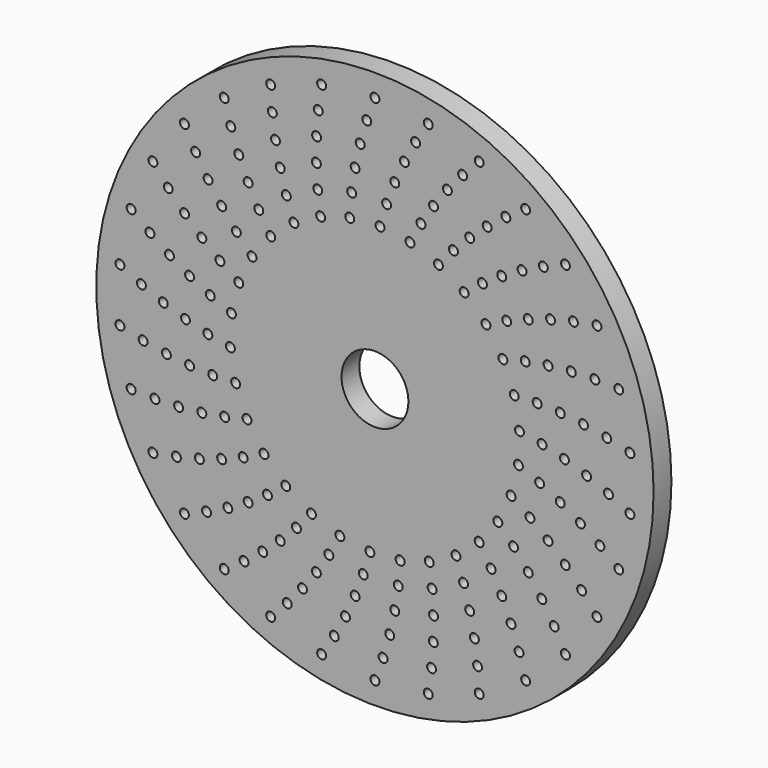
from build123d import *

# Parameters (mm, degrees)
F0_R     = 125
F0_R_2   = 2
F1_DEPTH = 10
F2_R     = 15
F3_DEPTH = 25


with BuildPart() as f1:
    # F0 (on Front) → F1 (new body)
    with BuildSketch(Plane.XZ):
        Circle(F0_R)
        with Locations((-67.595304, -93.036954)):
            Circle(F0_R_2, mode=Mode.SUBTRACT)
        with Locations((-85.461655, -76.95002)):
            Circle(F0_R_2, mode=Mode.SUBTRACT)
        with Locations((-75.530679, -72.939129)):
            Circle(F0_R_2, mode=Mode.SUBTRACT)
        with Locations((-65.992545, -68.337281)):
            Circle(F0_R_2, mode=Mode.SUBTRACT)
        with Locations((-46.774714, -105.057728)):
            Circle(F0_R_2, mode=Mode.SUBTRACT)
        with Locations((-39.333692, -97.354305)):
            Circle(F0_R_2, mode=Mode.SUBTRACT)
        with Locations((-23.909844, -112.486974)):
            Circle(F0_R_2, mode=Mode.SUBTRACT)
        with Locations((-18.233059, -103.404814)):
            Circle(F0_R_2, mode=Mode.SUBTRACT)
        with Locations((-13.221445, -94.075467)):
            Circle(F0_R_2, mode=Mode.SUBTRACT)
        with Locations((-58.715255, -87.048945)):
            Circle(F0_R_2, mode=Mode.SUBTRACT)
        with Locations((-50.34233, -80.564569)):
            Circle(F0_R_2, mode=Mode.SUBTRACT)
        with Locations((-32.491914, -89.270799)):
            Circle(F0_R_2, mode=Mode.SUBTRACT)
        with Locations((-56.876102, -63.16731)):
            Circle(F0_R_2, mode=Mode.SUBTRACT)
        with Locations((-42.5, -73.612159)):
            Circle(F0_R_2, mode=Mode.SUBTRACT)
        with Locations((-35.210367, -66.221069)):
            Circle(F0_R_2, mode=Mode.SUBTRACT)
        with Locations((-26.266445, -80.839804)):
            Circle(F0_R_2, mode=Mode.SUBTRACT)
        with Locations((-8.884919, -84.534361)):
            Circle(F0_R_2, mode=Mode.SUBTRACT)
        with Locations((-20.672802, -72.094627)):
            Circle(F0_R_2, mode=Mode.SUBTRACT)
        with Locations((-15.724923, -63.069222)):
            Circle(F0_R_2, mode=Mode.SUBTRACT)
        with Locations((-5.231736, -74.817304)):
            Circle(F0_R_2, mode=Mode.SUBTRACT)
        with Locations((-2.268467, -64.960404)):
            Circle(F0_R_2, mode=Mode.SUBTRACT)
        with Locations((-99.592921, -57.5)):
            Circle(F0_R_2, mode=Mode.SUBTRACT)
        with Locations((-109.371499, -35.536954)):
            Circle(F0_R_2, mode=Mode.SUBTRACT)
        with Locations((-98.667725, -35.912115)):
            Circle(F0_R_2, mode=Mode.SUBTRACT)
        with Locations((-89.04505, -55.641523)):
            Circle(F0_R_2, mode=Mode.SUBTRACT)
        with Locations((-78.758569, -53.123326)):
            Circle(F0_R_2, mode=Mode.SUBTRACT)
        with Locations((-68.766445, -49.961746)):
            Circle(F0_R_2, mode=Mode.SUBTRACT)
        with Locations((-88.082466, -35.587626)):
            Circle(F0_R_2, mode=Mode.SUBTRACT)
        with Locations((-77.651364, -34.572615)):
            Circle(F0_R_2, mode=Mode.SUBTRACT)
        with Locations((-67.409553, -32.877836)):
            Circle(F0_R_2, mode=Mode.SUBTRACT)
        with Locations((-114.370018, -12.020773)):
            Circle(F0_R_2, mode=Mode.SUBTRACT)
        with Locations((-103.978147, -14.613176)):
            Circle(F0_R_2, mode=Mode.SUBTRACT)
        with Locations((-93.556737, -16.496577)):
            Circle(F0_R_2, mode=Mode.SUBTRACT)
        with Locations((-83.142546, -17.672494)):
            Circle(F0_R_2, mode=Mode.SUBTRACT)
        with Locations((-72.772179, -18.144142)):
            Circle(F0_R_2, mode=Mode.SUBTRACT)
        with Locations((-74.954312, -2.617462)):
            Circle(F0_R_2, mode=Mode.SUBTRACT)
        with Locations((-64.841663, -4.534171)):
            Circle(F0_R_2, mode=Mode.SUBTRACT)
        with Locations((-48.209071, -57.453333)):
            Circle(F0_R_2, mode=Mode.SUBTRACT)
        with Locations((-40.017996, -51.220699)):
            Circle(F0_R_2, mode=Mode.SUBTRACT)
        with Locations((-59.100807, -46.174611)):
            Circle(F0_R_2, mode=Mode.SUBTRACT)
        with Locations((-49.792889, -41.781195)):
            Circle(F0_R_2, mode=Mode.SUBTRACT)
        with Locations((-28.494125, -58.421613)):
            Circle(F0_R_2, mode=Mode.SUBTRACT)
        with Locations((-57.391594, -30.515652)):
            Circle(F0_R_2, mode=Mode.SUBTRACT)
        with Locations((-62.48201, -17.916428)):
            Circle(F0_R_2, mode=Mode.SUBTRACT)
        with Locations((0, -115)):
            Circle(F0_R_2, mode=Mode.SUBTRACT)
        with Locations((23.909844, -112.486974)):
            Circle(F0_R_2, mode=Mode.SUBTRACT)
        with Locations((3.664447, -104.936037)):
            Circle(F0_R_2, mode=Mode.SUBTRACT)
        with Locations((6.626865, -94.768585)):
            Circle(F0_R_2, mode=Mode.SUBTRACT)
        with Locations((25.401799, -101.881051)):
            Circle(F0_R_2, mode=Mode.SUBTRACT)
        with Locations((46.774714, -105.057728)):
            Circle(F0_R_2, mode=Mode.SUBTRACT)
        with Locations((46.02897, -94.373375)):
            Circle(F0_R_2, mode=Mode.SUBTRACT)
        with Locations((8.884919, -84.534361)):
            Circle(F0_R_2, mode=Mode.SUBTRACT)
        with Locations((26.185549, -91.319861)):
            Circle(F0_R_2, mode=Mode.SUBTRACT)
        with Locations((26.266445, -80.839804)):
            Circle(F0_R_2, mode=Mode.SUBTRACT)
        with Locations((10.437983, -74.270105)):
            Circle(F0_R_2, mode=Mode.SUBTRACT)
        with Locations((11.287132, -64.012504)):
            Circle(F0_R_2, mode=Mode.SUBTRACT)
        with Locations((25.651511, -70.476947)):
            Circle(F0_R_2, mode=Mode.SUBTRACT)
        with Locations((44.599798, -83.880021)):
            Circle(F0_R_2, mode=Mode.SUBTRACT)
        with Locations((42.5, -73.612159)):
            Circle(F0_R_2, mode=Mode.SUBTRACT)
        with Locations((39.743945, -63.603607)):
            Circle(F0_R_2, mode=Mode.SUBTRACT)
        with Locations((61.064823, -72.774222)):
            Circle(F0_R_2, mode=Mode.SUBTRACT)
        with Locations((56.876102, -63.16731)):
            Circle(F0_R_2, mode=Mode.SUBTRACT)
        with Locations((67.595304, -93.036954)):
            Circle(F0_R_2, mode=Mode.SUBTRACT)
        with Locations((64.644455, -82.741129)):
            Circle(F0_R_2, mode=Mode.SUBTRACT)
        with Locations((85.461655, -76.95002)):
            Circle(F0_R_2, mode=Mode.SUBTRACT)
        with Locations((80.434667, -67.492699)):
            Circle(F0_R_2, mode=Mode.SUBTRACT)
        with Locations((24.349429, -60.266951)):
            Circle(F0_R_2, mode=Mode.SUBTRACT)
        with Locations((36.347539, -53.887442)):
            Circle(F0_R_2, mode=Mode.SUBTRACT)
        with Locations((52.099378, -53.950485)):
            Circle(F0_R_2, mode=Mode.SUBTRACT)
        with Locations((46.757087, -45.152794)):
            Circle(F0_R_2, mode=Mode.SUBTRACT)
        with Locations((62.177818, -41.939468)):
            Circle(F0_R_2, mode=Mode.SUBTRACT)
        with Locations((55.123126, -34.444752)):
            Circle(F0_R_2, mode=Mode.SUBTRACT)
        with Locations((61.08002, -22.231309)):
            Circle(F0_R_2, mode=Mode.SUBTRACT)
        with Locations((74.861022, -58.48784)):
            Circle(F0_R_2, mode=Mode.SUBTRACT)
        with Locations((68.766445, -49.961746)):
            Circle(F0_R_2, mode=Mode.SUBTRACT)
        with Locations((92.709497, -49.294514)):
            Circle(F0_R_2, mode=Mode.SUBTRACT)
        with Locations((77.651364, -34.572615)):
            Circle(F0_R_2, mode=Mode.SUBTRACT)
        with Locations((85.385434, -41.645259)):
            Circle(F0_R_2, mode=Mode.SUBTRACT)
        with Locations((99.592921, -57.5)):
            Circle(F0_R_2, mode=Mode.SUBTRACT)
        with Locations((109.371499, -35.536954)):
            Circle(F0_R_2, mode=Mode.SUBTRACT)
        with Locations((69.538789, -28.095495)):
            Circle(F0_R_2, mode=Mode.SUBTRACT)
        with Locations((83.142546, -17.672494)):
            Circle(F0_R_2, mode=Mode.SUBTRACT)
        with Locations((92.178094, -22.98258)):
            Circle(F0_R_2, mode=Mode.SUBTRACT)
        with Locations((64.367424, -9.046252)):
            Circle(F0_R_2, mode=Mode.SUBTRACT)
        with Locations((73.860581, -13.023613)):
            Circle(F0_R_2, mode=Mode.SUBTRACT)
        with Locations((100.932478, -28.941922)):
            Circle(F0_R_2, mode=Mode.SUBTRACT)
        with Locations((94.942129, -3.315452)):
            Circle(F0_R_2, mode=Mode.SUBTRACT)
        with Locations((104.744225, -7.32443)):
            Circle(F0_R_2, mode=Mode.SUBTRACT)
        with Locations((114.370018, -12.020773)):
            Circle(F0_R_2, mode=Mode.SUBTRACT)
        with Locations((-114.370018, 12.020773)):
            Circle(F0_R_2, mode=Mode.SUBTRACT)
        with Locations((-104.744225, 7.32443)):
            Circle(F0_R_2, mode=Mode.SUBTRACT)
        with Locations((-94.942129, 3.315452)):
            Circle(F0_R_2, mode=Mode.SUBTRACT)
        with Locations((-100.932478, 28.941922)):
            Circle(F0_R_2, mode=Mode.SUBTRACT)
        with Locations((-85, 0)):
            Circle(F0_R_2, mode=Mode.SUBTRACT)
        with Locations((-73.860581, 13.023613)):
            Circle(F0_R_2, mode=Mode.SUBTRACT)
        with Locations((-64.367424, 9.046252)):
            Circle(F0_R_2, mode=Mode.SUBTRACT)
        with Locations((-92.178094, 22.98258)):
            Circle(F0_R_2, mode=Mode.SUBTRACT)
        with Locations((-83.142546, 17.672494)):
            Circle(F0_R_2, mode=Mode.SUBTRACT)
        with Locations((-69.538789, 28.095495)):
            Circle(F0_R_2, mode=Mode.SUBTRACT)
        with Locations((-109.371499, 35.536954)):
            Circle(F0_R_2, mode=Mode.SUBTRACT)
        with Locations((-99.592921, 57.5)):
            Circle(F0_R_2, mode=Mode.SUBTRACT)
        with Locations((-85.385434, 41.645259)):
            Circle(F0_R_2, mode=Mode.SUBTRACT)
        with Locations((-77.651364, 34.572615)):
            Circle(F0_R_2, mode=Mode.SUBTRACT)
        with Locations((-92.709497, 49.294514)):
            Circle(F0_R_2, mode=Mode.SUBTRACT)
        with Locations((-68.766445, 49.961746)):
            Circle(F0_R_2, mode=Mode.SUBTRACT)
        with Locations((-74.861022, 58.48784)):
            Circle(F0_R_2, mode=Mode.SUBTRACT)
        with Locations((-61.08002, 22.231309)):
            Circle(F0_R_2, mode=Mode.SUBTRACT)
        with Locations((-55.123126, 34.444752)):
            Circle(F0_R_2, mode=Mode.SUBTRACT)
        with Locations((-62.177818, 41.939468)):
            Circle(F0_R_2, mode=Mode.SUBTRACT)
        with Locations((-46.757087, 45.152794)):
            Circle(F0_R_2, mode=Mode.SUBTRACT)
        with Locations((-52.099378, 53.950485)):
            Circle(F0_R_2, mode=Mode.SUBTRACT)
        with Locations((-36.347539, 53.887442)):
            Circle(F0_R_2, mode=Mode.SUBTRACT)
        with Locations((-24.349429, 60.266951)):
            Circle(F0_R_2, mode=Mode.SUBTRACT)
        with Locations((-80.434667, 67.492699)):
            Circle(F0_R_2, mode=Mode.SUBTRACT)
        with Locations((-85.461655, 76.95002)):
            Circle(F0_R_2, mode=Mode.SUBTRACT)
        with Locations((-64.644455, 82.741129)):
            Circle(F0_R_2, mode=Mode.SUBTRACT)
        with Locations((-67.595304, 93.036954)):
            Circle(F0_R_2, mode=Mode.SUBTRACT)
        with Locations((-56.876102, 63.16731)):
            Circle(F0_R_2, mode=Mode.SUBTRACT)
        with Locations((-61.064823, 72.774222)):
            Circle(F0_R_2, mode=Mode.SUBTRACT)
        with Locations((-39.743945, 63.603607)):
            Circle(F0_R_2, mode=Mode.SUBTRACT)
        with Locations((-42.5, 73.612159)):
            Circle(F0_R_2, mode=Mode.SUBTRACT)
        with Locations((-44.599798, 83.880021)):
            Circle(F0_R_2, mode=Mode.SUBTRACT)
        with Locations((-25.651511, 70.476947)):
            Circle(F0_R_2, mode=Mode.SUBTRACT)
        with Locations((-11.287132, 64.012504)):
            Circle(F0_R_2, mode=Mode.SUBTRACT)
        with Locations((-10.437983, 74.270105)):
            Circle(F0_R_2, mode=Mode.SUBTRACT)
        with Locations((-26.266445, 80.839804)):
            Circle(F0_R_2, mode=Mode.SUBTRACT)
        with Locations((-26.185549, 91.319861)):
            Circle(F0_R_2, mode=Mode.SUBTRACT)
        with Locations((-8.884919, 84.534361)):
            Circle(F0_R_2, mode=Mode.SUBTRACT)
        with Locations((-46.02897, 94.373375)):
            Circle(F0_R_2, mode=Mode.SUBTRACT)
        with Locations((-46.774714, 105.057728)):
            Circle(F0_R_2, mode=Mode.SUBTRACT)
        with Locations((-25.401799, 101.881051)):
            Circle(F0_R_2, mode=Mode.SUBTRACT)
        with Locations((-6.626865, 94.768585)):
            Circle(F0_R_2, mode=Mode.SUBTRACT)
        with Locations((-3.664447, 104.936037)):
            Circle(F0_R_2, mode=Mode.SUBTRACT)
        with Locations((-23.909844, 112.486974)):
            Circle(F0_R_2, mode=Mode.SUBTRACT)
        with Locations((62.48201, 17.916428)):
            Circle(F0_R_2, mode=Mode.SUBTRACT)
        with Locations((57.391594, 30.515652)):
            Circle(F0_R_2, mode=Mode.SUBTRACT)
        with Locations((28.494125, 58.421613)):
            Circle(F0_R_2, mode=Mode.SUBTRACT)
        with Locations((49.792889, 41.781195)):
            Circle(F0_R_2, mode=Mode.SUBTRACT)
        with Locations((59.100807, 46.174611)):
            Circle(F0_R_2, mode=Mode.SUBTRACT)
        with Locations((40.017996, 51.220699)):
            Circle(F0_R_2, mode=Mode.SUBTRACT)
        with Locations((48.209071, 57.453333)):
            Circle(F0_R_2, mode=Mode.SUBTRACT)
        with Locations((64.841663, 4.534171)):
            Circle(F0_R_2, mode=Mode.SUBTRACT)
        with Locations((74.954312, 2.617462)):
            Circle(F0_R_2, mode=Mode.SUBTRACT)
        with Locations((85, 0)):
            Circle(F0_R_2, mode=Mode.SUBTRACT)
        with Locations((72.772179, 18.144142)):
            Circle(F0_R_2, mode=Mode.SUBTRACT)
        with Locations((83.142546, 17.672494)):
            Circle(F0_R_2, mode=Mode.SUBTRACT)
        with Locations((93.556737, 16.496577)):
            Circle(F0_R_2, mode=Mode.SUBTRACT)
        with Locations((103.978147, 14.613176)):
            Circle(F0_R_2, mode=Mode.SUBTRACT)
        with Locations((114.370018, 12.020773)):
            Circle(F0_R_2, mode=Mode.SUBTRACT)
        with Locations((67.409553, 32.877836)):
            Circle(F0_R_2, mode=Mode.SUBTRACT)
        with Locations((77.651364, 34.572615)):
            Circle(F0_R_2, mode=Mode.SUBTRACT)
        with Locations((88.082466, 35.587626)):
            Circle(F0_R_2, mode=Mode.SUBTRACT)
        with Locations((68.766445, 49.961746)):
            Circle(F0_R_2, mode=Mode.SUBTRACT)
        with Locations((78.758569, 53.123326)):
            Circle(F0_R_2, mode=Mode.SUBTRACT)
        with Locations((89.04505, 55.641523)):
            Circle(F0_R_2, mode=Mode.SUBTRACT)
        with Locations((98.667725, 35.912115)):
            Circle(F0_R_2, mode=Mode.SUBTRACT)
        with Locations((109.371499, 35.536954)):
            Circle(F0_R_2, mode=Mode.SUBTRACT)
        with Locations((99.592921, 57.5)):
            Circle(F0_R_2, mode=Mode.SUBTRACT)
        with Locations((2.268467, 64.960404)):
            Circle(F0_R_2, mode=Mode.SUBTRACT)
        with Locations((5.231736, 74.817304)):
            Circle(F0_R_2, mode=Mode.SUBTRACT)
        with Locations((15.724923, 63.069222)):
            Circle(F0_R_2, mode=Mode.SUBTRACT)
        with Locations((20.672802, 72.094627)):
            Circle(F0_R_2, mode=Mode.SUBTRACT)
        with Locations((8.884919, 84.534361)):
            Circle(F0_R_2, mode=Mode.SUBTRACT)
        with Locations((26.266445, 80.839804)):
            Circle(F0_R_2, mode=Mode.SUBTRACT)
        with Locations((35.210367, 66.221069)):
            Circle(F0_R_2, mode=Mode.SUBTRACT)
        with Locations((42.5, 73.612159)):
            Circle(F0_R_2, mode=Mode.SUBTRACT)
        with Locations((56.876102, 63.16731)):
            Circle(F0_R_2, mode=Mode.SUBTRACT)
        with Locations((32.491914, 89.270799)):
            Circle(F0_R_2, mode=Mode.SUBTRACT)
        with Locations((50.34233, 80.564569)):
            Circle(F0_R_2, mode=Mode.SUBTRACT)
        with Locations((58.715255, 87.048945)):
            Circle(F0_R_2, mode=Mode.SUBTRACT)
        with Locations((13.221445, 94.075467)):
            Circle(F0_R_2, mode=Mode.SUBTRACT)
        with Locations((18.233059, 103.404814)):
            Circle(F0_R_2, mode=Mode.SUBTRACT)
        with Locations((0, 115)):
            Circle(F0_R_2, mode=Mode.SUBTRACT)
        with Locations((23.909844, 112.486974)):
            Circle(F0_R_2, mode=Mode.SUBTRACT)
        with Locations((39.333692, 97.354305)):
            Circle(F0_R_2, mode=Mode.SUBTRACT)
        with Locations((46.774714, 105.057728)):
            Circle(F0_R_2, mode=Mode.SUBTRACT)
        with Locations((65.992545, 68.337281)):
            Circle(F0_R_2, mode=Mode.SUBTRACT)
        with Locations((75.530679, 72.939129)):
            Circle(F0_R_2, mode=Mode.SUBTRACT)
        with Locations((85.461655, 76.95002)):
            Circle(F0_R_2, mode=Mode.SUBTRACT)
        with Locations((67.595304, 93.036954)):
            Circle(F0_R_2, mode=Mode.SUBTRACT)
    extrude(amount=F1_DEPTH)

    # F2 (on face) → F3 (cut)
    with BuildSketch(Plane.XZ.offset(10)):
        Circle(F2_R)
    extrude(amount=-F3_DEPTH, mode=Mode.SUBTRACT)


solid = f1.part
